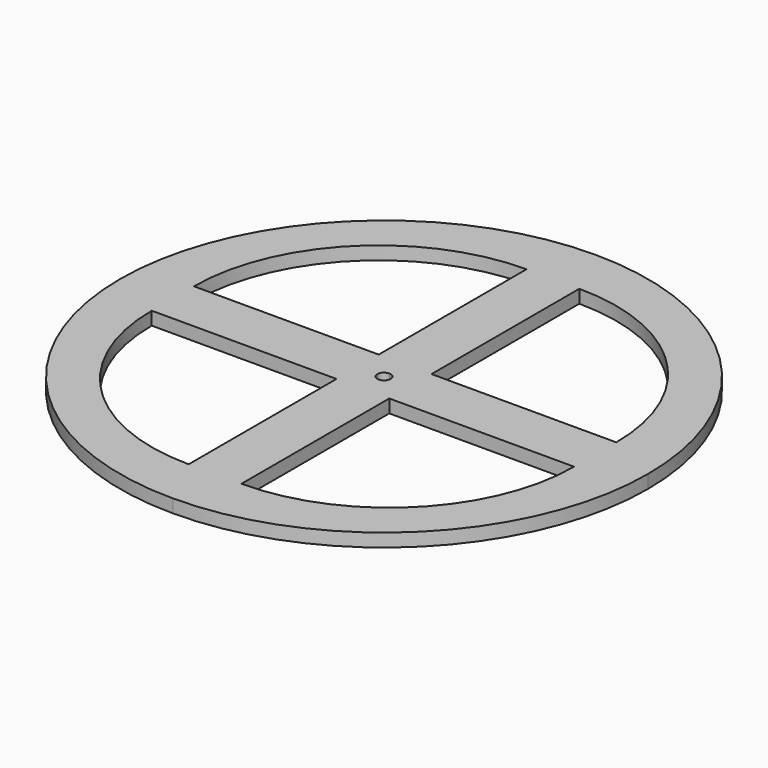
from build123d import *

# Parameters (mm, degrees)
F1_DEPTH = 3.175


with BuildPart() as f1:
    # F0 (on Top) → F1 (new body)
    with BuildSketch(Plane.XY):
        with BuildLine():
            ThreePointArc((0, -63.5), (44.901281, -44.901281), (63.5, 0))
            Line((63.5, 0), (1.5875, 0))
            ThreePointArc((1.5875, 0), (1.122532, -1.122532), (0, -1.5875))
            Line((0, -1.5875), (0, -63.5))
        make_face()
        with BuildLine():
            Line((6.35, -6.35), (50.8, -6.35))
            ThreePointArc((50.8, -6.35), (37.780896, -37.780896), (6.35, -50.8))
            Line((6.35, -50.8), (6.35, -6.35))
        make_face(mode=Mode.SUBTRACT)
        with BuildLine():
            Line((1.5875, 0), (63.5, 0))
            ThreePointArc((63.5, 0), (44.901281, 44.901281), (0, 63.5))
            Line((0, 63.5), (0, 1.5875))
            ThreePointArc((0, 1.5875), (1.122532, 1.122532), (1.5875, 0))
        make_face()
        with BuildLine():
            Line((6.35, 6.35), (6.35, 50.8))
            ThreePointArc((6.35, 50.8), (37.780896, 37.780896), (50.8, 6.35))
            Line((50.8, 6.35), (6.35, 6.35))
        make_face(mode=Mode.SUBTRACT)
        with BuildLine():
            Line((0, 1.5875), (0, 63.5))
            ThreePointArc((0, 63.5), (-44.901281, 44.901281), (-63.5, 0))
            Line((-63.5, 0), (-1.5875, 0))
            ThreePointArc((-1.5875, 0), (-1.122532, 1.122532), (0, 1.5875))
        make_face()
        with BuildLine():
            Line((-6.35, 6.35), (-50.8, 6.35))
            ThreePointArc((-50.8, 6.35), (-37.780896, 37.780896), (-6.35, 50.8))
            Line((-6.35, 50.8), (-6.35, 6.35))
        make_face(mode=Mode.SUBTRACT)
        with BuildLine():
            ThreePointArc((-63.5, 0), (-44.901281, -44.901281), (0, -63.5))
            Line((0, -63.5), (0, -1.5875))
            ThreePointArc((0, -1.5875), (-1.122532, -1.122532), (-1.5875, 0))
            Line((-1.5875, 0), (-63.5, 0))
        make_face()
        with BuildLine():
            Line((-6.35, -6.35), (-6.35, -50.8))
            ThreePointArc((-6.35, -50.8), (-37.780896, -37.780896), (-50.8, -6.35))
            Line((-50.8, -6.35), (-6.35, -6.35))
        make_face(mode=Mode.SUBTRACT)
    extrude(amount=F1_DEPTH)


solid = f1.part
